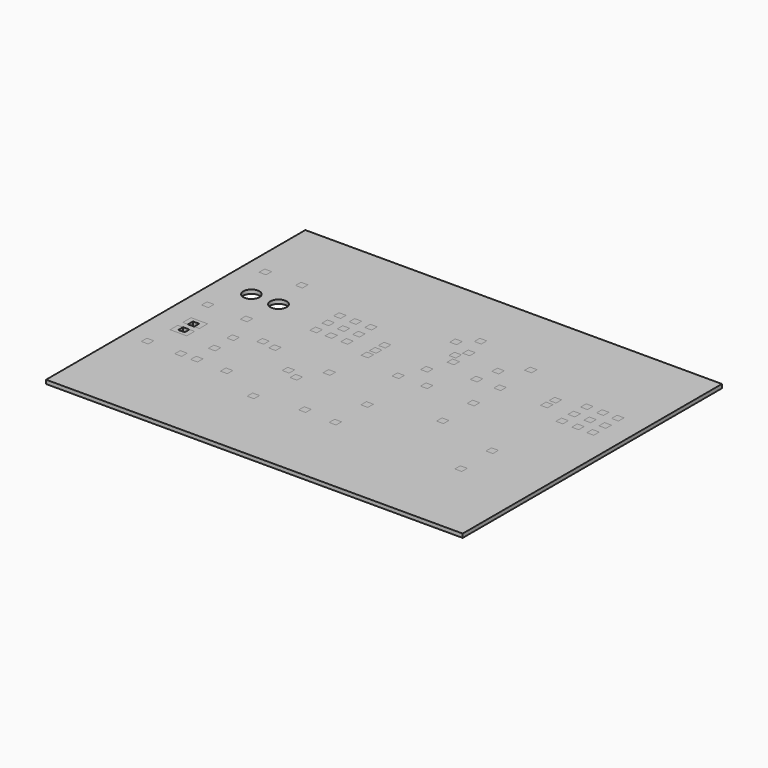
from build123d import *

# Parameters (mm, degrees)
F0_W     = 1.1424850672
F0_H     = 1.1424841359
F1_DEPTH = 0.635
F0_W_2   = 68.58
F0_H_2   = 53.34
F0_R     = 3.048384159
F0_R_2   = 3.0501055082
F0_R_3   = 1.3281430865
F0_R_4   = 1.3313448852
F0_R_5   = 3.0492368832
F0_R_6   = 3.0482052647
F0_R_7   = 1.7145
F0_R_8   = 1.7111635464
F0_W_3   = 1.153769858
F0_H_3   = 1.1635442312
F0_W_4   = 1.155131369
F0_H_4   = 1.153957394
F0_W_5   = 1.1552454147
F0_H_5   = 1.1508179416
F0_W_6   = 1.1546638189
F0_H_6   = 1.1431326677
F0_W_7   = 1.1488137162
F0_H_7   = 1.1468691339
F0_W_8   = 1.1546542028
F0_H_8   = 1.1406329979
F0_W_9   = 1.151802796
F0_W_10  = 1.1472644611
F0_W_11  = 1.1428695498
F0_H_9   = 1.1506540288
F0_W_12  = 1.1488784431
F0_H_10  = 1.1438889016
F0_W_13  = 1.1484295456
F0_H_11  = 1.1441645731
F0_W_14  = 1.1429608194
F0_W_15  = 1.1424560426
F0_W_16  = 1.1420074653
F0_W_17  = 1.1491597025
F0_H_12  = 1.137824129
F0_W_18  = 1.1540025799
F0_H_13  = 1.1319679727
F0_W_19  = 1.1389188795
F0_W_20  = 1.136336322
F0_W_21  = 1.1386022298
F0_W_22  = 1.1507336377
F0_H_14  = 1.130611967
F0_W_23  = 1.1359381753
F0_W_24  = 1.1475555285
F0_H_15  = 1.1319716979
F0_W_25  = 1.1313695787
F0_H_16  = 1.1465971877
F0_W_26  = 1.1428432426
F0_H_17  = 1.1348401715
F0_W_27  = 1.1360105316
F0_W_28  = 1.1460043816
F0_H_18  = 1.1303772737
F0_W_29  = 1.1320438562
F0_W_30  = 1.1440048321
F0_W_31  = 1.1433229413
F0_H_19  = 1.1308056821
F0_W_32  = 1.1429272918
F0_W_33  = 1.1369556515
F0_H_20  = 1.1324932386
F0_W_34  = 1.1285118523
F0_H_21  = 1.1317766343
F0_W_35  = 1.1280644313
F0_W_36  = 1.1258753965
F2_DEPTH = 0.635


with BuildPart() as f1:
    # F0 (on Top) → F1 (new body)
    with BuildSketch(Plane.XY):
        with Locations((-12.0947835967, -11.4464927465)):
            Rectangle(F0_W, F0_H)
    extrude(amount=F1_DEPTH)


with BuildPart() as f1b:
    # F0 (on Top) → F1, piece 2 (new body)
    with BuildSketch(Plane.XY):
        with Locations((3.6845223513, 8.9712943882)):
            Rectangle(F0_W, F0_H)
    extrude(amount=F1_DEPTH)


with BuildPart() as f1c:
    # F0 (on Top) → F1, piece 3 (new body)
    with BuildSketch(Plane.XY):
        with Locations((20.7899678499, 11.8188885972)):
            Rectangle(F0_W, F0_H)
    extrude(amount=F1_DEPTH)


with BuildPart() as f1d:
    # F0 (on Top) → F1, piece 4 (new body)
    with BuildSketch(Plane.XY):
        with Locations((-0.164329831, 8.9690964669)):
            Rectangle(F0_W, F0_H)
    extrude(amount=F1_DEPTH)


with BuildPart() as f1e:
    # F0 (on Top) → F1, piece 5 (new body)
    with BuildSketch(Plane.XY):
        with Locations((15.6995188445, 11.8208611384)):
            Rectangle(F0_W, F0_H)
    extrude(amount=F1_DEPTH)


with BuildPart() as f1f:
    # F0 (on Top) → F1, piece 6 (new body)
    with BuildSketch(Plane.XY):
        with Locations((-16.1074316129, -1.4182815794)):
            Rectangle(F0_W, F0_H)
    extrude(amount=F1_DEPTH)


with BuildPart() as f1g:
    # F0 (on Top) → F1, piece 7 (new body)
    with BuildSketch(Plane.XY):
        with Locations((0.5816233461, 12.4416407198)):
            Rectangle(F0_W, F0_H)
    extrude(amount=F1_DEPTH)


with BuildPart() as f1h:
    # F0 (on Top) → F1, piece 8 (new body)
    with BuildSketch(Plane.XY):
        with Locations((-40.0054538622, 15.3071652167)):
            Rectangle(F0_W, F0_H)
    extrude(amount=F1_DEPTH)


with BuildPart() as f1i:
    # F0 (on Top) → F1, piece 9 (new body)
    with BuildSketch(Plane.XY):
        with Locations((3.685904434, 15.3039516881)):
            Rectangle(F0_W, F0_H)
    extrude(amount=F1_DEPTH)


with BuildPart() as f1j:
    # F0 (on Top) → F1, piece 10 (new body)
    with BuildSketch(Plane.XY):
        with Locations((-6.7360280082, -5.3423130885)):
            Rectangle(F0_W, F0_H)
    extrude(amount=F1_DEPTH)


with BuildPart() as f1k:
    # F0 (on Top) → F1, piece 11 (new body)
    with BuildSketch(Plane.XY):
        with Locations((3.6789604928, -2.8074549045)):
            Rectangle(F0_W, F0_H)
    extrude(amount=F1_DEPTH)


with BuildPart() as f1l:
    # F0 (on Top) → F1, piece 12 (new body)
    with BuildSketch(Plane.XY):
        with Locations((-25.8802818134, -0.3875818802)):
            Rectangle(F0_W, F0_H)
    extrude(amount=F1_DEPTH)


with BuildPart() as f1m:
    # F0 (on Top) → F1, piece 13 (new body)
    with BuildSketch(Plane.XY):
        with Locations((-6.8688215688, 7.1150702424)):
            Rectangle(F0_W, F0_H)
    extrude(amount=F1_DEPTH)


with BuildPart() as f1n:
    # F0 (on Top) → F1, piece 14 (new body)
    with BuildSketch(Plane.XY):
        with Locations((13.8416448608, -5.3388397209)):
            Rectangle(F0_W, F0_H)
    extrude(amount=F1_DEPTH)


with BuildPart() as f1o:
    # F0 (on Top) → F1, piece 15 (new body)
    with BuildSketch(Plane.XY):
        with Locations((-31.8141551688, -1.5945939813)):
            Rectangle(F0_W, F0_H)
    extrude(amount=F1_DEPTH)


with BuildPart() as f1p:
    # F0 (on Top) → F1, piece 16 (new body)
    with BuildSketch(Plane.XY):
        with Locations((-31.8734729663, -5.3138262592)):
            Rectangle(F0_W, F0_H)
    extrude(amount=F1_DEPTH)


with BuildPart() as f1q:
    # F0 (on Top) → F1, piece 17 (new body)
    with BuildSketch(Plane.XY):
        with Locations((-15.2974575758, 8.9713996276)):
            Rectangle(F0_W, F0_H)
    extrude(amount=F1_DEPTH)


with BuildPart() as f1r:
    # F0 (on Top) → F1, piece 18 (new body)
    with BuildSketch(Plane.XY):
        with Locations((-26.6984822229, -9.2989178374)):
            Rectangle(F0_W, F0_H)
    extrude(amount=F1_DEPTH)


with BuildPart() as f1s:
    # F0 (on Top) → F1, piece 19 (new body)
    with BuildSketch(Plane.XY):
        with Locations((-19.6643201634, -12.6012633555)):
            Rectangle(F0_W, F0_H)
    extrude(amount=F1_DEPTH)


with BuildPart() as f1t:
    # F0 (on Top) → F1, piece 20 (new body)
    with BuildSketch(Plane.XY):
        with Locations((-20.6055892631, -4.2083924636)):
            Rectangle(F0_W, F0_H)
    extrude(amount=F1_DEPTH)


with BuildPart() as f1u:
    # F0 (on Top) → F1, piece 21 (new body)
    with BuildSketch(Plane.XY):
        with Locations((-6.3619138673, 17.5272338092)):
            Rectangle(F0_W, F0_H)
    extrude(amount=F1_DEPTH)


with BuildPart() as f1v:
    # F0 (on Top) → F1, piece 22 (new body)
    with BuildSketch(Plane.XY):
        with Locations((-34.0579906479, 15.3533625416)):
            Rectangle(F0_W, F0_H)
    extrude(amount=F1_DEPTH)


with BuildPart() as f1w:
    # F0 (on Top) → F1, piece 23 (new body)
    with BuildSketch(Plane.XY):
        with Locations((-24.938381277, 11.7857339792)):
            Rectangle(F0_W, F0_H)
    extrude(amount=F1_DEPTH)


with BuildPart() as f1x:
    # F0 (on Top) → F1, piece 24 (new body)
    with BuildSketch(Plane.XY):
        with Locations((18.3159410954, 11.819222942)):
            Rectangle(F0_W, F0_H)
    extrude(amount=F1_DEPTH)


with BuildPart() as f1y:
    # F0 (on Top) → F1, piece 25 (new body)
    with BuildSketch(Plane.XY):
        with Locations((-6.8619521335, -11.725505814)):
            Rectangle(F0_W, F0_H)
    extrude(amount=F1_DEPTH)


with BuildPart() as f1z:
    # F0 (on Top) → F1, piece 26 (new body)
    with BuildSketch(Plane.XY):
        with Locations((3.6787756253, 3.5106195137)):
            Rectangle(F0_W, F0_H)
    extrude(amount=F1_DEPTH)


with BuildPart() as f1ba:
    # F0 (on Top) → F1, piece 27 (new body)
    with BuildSketch(Plane.XY):
        with Locations((-40.0899508968, 3.5514084157)):
            Rectangle(F0_W, F0_H)
    extrude(amount=F1_DEPTH)


with BuildPart() as f1bb:
    # F0 (on Top) → F1, piece 28 (new body)
    with BuildSketch(Plane.XY):
        with Locations((-8.6239557713, 3.4016023856)):
            Rectangle(F0_W, F0_H)
    extrude(amount=F1_DEPTH)


with BuildPart() as f1bc:
    # F0 (on Top) → F1, piece 29 (new body)
    with BuildSketch(Plane.XY):
        with Locations((-28.176353313, 0.0254244078)):
            Rectangle(F0_W, F0_H)
    extrude(amount=F1_DEPTH)


with BuildPart() as f1bd:
    # F0 (on Top) → F1, piece 30 (new body)
    with BuildSketch(Plane.XY):
        with Locations((-4.0141595528, 3.5131284967)):
            Rectangle(F0_W, F0_H)
    extrude(amount=F1_DEPTH)


with BuildPart() as f1be:
    # F0 (on Top) → F1, piece 31 (new body)
    with BuildSketch(Plane.XY):
        with Locations((13.8409873471, -11.7373885587)):
            Rectangle(F0_W, F0_H)
    extrude(amount=F1_DEPTH)


with BuildPart() as f1bf:
    # F0 (on Top) → F1, piece 32 (new body)
    with BuildSketch(Plane.XY):
        with Locations((-39.801068604, -9.1939172707)):
            Rectangle(F0_W, F0_H)
    extrude(amount=F1_DEPTH)


with BuildPart() as f1bg:
    # F0 (on Top) → F1, piece 33 (new body)
    with BuildSketch(Plane.XY):
        with Locations((-34.2925013974, -9.2015261762)):
            Rectangle(F0_W, F0_H)
    extrude(amount=F1_DEPTH)


with BuildPart() as f1bh:
    # F0 (on Top) → F1, piece 34 (new body)
    with BuildSketch(Plane.XY):
        with Locations((15.7072041184, 9.2119891196)):
            Rectangle(F0_W, F0_H)
    extrude(amount=F1_DEPTH)


with BuildPart() as f1bi:
    # F0 (on Top) → F1, piece 35 (new body)
    with BuildSketch(Plane.XY):
        with Locations((-19.7311779484, 6.7653921433)):
            Rectangle(F0_W, F0_H)
    extrude(amount=F1_DEPTH)


with BuildPart() as f1bj:
    # F0 (on Top) → F1, piece 36 (new body)
    with BuildSketch(Plane.XY):
        with Locations((-19.7957484052, 11.7804431356)):
            Rectangle(F0_W, F0_H)
    extrude(amount=F1_DEPTH)


with BuildPart() as f1bk:
    # F0 (on Top) → F1, piece 37 (new body)
    with BuildSketch(Plane.XY):
        with Locations((-22.3168237135, 9.2533458956)):
            Rectangle(F0_W, F0_H)
    extrude(amount=F1_DEPTH)


with BuildPart() as f1bl:
    # F0 (on Top) → F1, piece 38 (new body)
    with BuildSketch(Plane.XY):
        with Locations((-24.8503545299, 9.2730033211)):
            Rectangle(F0_W, F0_H)
    extrude(amount=F1_DEPTH)


with BuildPart() as f1bm:
    # F0 (on Top) → F1, piece 39 (new body)
    with BuildSketch(Plane.XY):
        with Locations((-24.8198667541, 6.7671635188)):
            Rectangle(F0_W, F0_H)
    extrude(amount=F1_DEPTH)


with BuildPart() as f1bn:
    # F0 (on Top) → F1, piece 40 (new body)
    with BuildSketch(Plane.XY):
        with Locations((-18.5875222087, -5.1120142452)):
            Rectangle(F0_W, F0_H)
    extrude(amount=F1_DEPTH)


with BuildPart() as f1bo:
    # F0 (on Top) → F1, piece 41 (new body)
    with BuildSketch(Plane.XY):
        with Locations((-33.7255010381, 3.5727850627)):
            Rectangle(F0_W, F0_H)
    extrude(amount=F1_DEPTH)


with BuildPart() as f1bp:
    # F0 (on Top) → F1, piece 42 (new body)
    with BuildSketch(Plane.XY):
        with Locations((-15.322313644, 5.4454342462)):
            Rectangle(F0_W, F0_H)
    extrude(amount=F1_DEPTH)


with BuildPart() as f1bq:
    # F0 (on Top) → F1, piece 43 (new body)
    with BuildSketch(Plane.XY):
        with Locations((11.4010758698, 10.7105723582)):
            Rectangle(F0_W, F0_H)
    extrude(amount=F1_DEPTH)


with BuildPart() as f1br:
    # F0 (on Top) → F1, piece 44 (new body)
    with BuildSketch(Plane.XY):
        with Locations((-15.2958659455, 7.1160676889)):
            Rectangle(F0_W, F0_H)
    extrude(amount=F1_DEPTH)


with BuildPart() as f1bs:
    # F0 (on Top) → F1, piece 45 (new body)
    with BuildSketch(Plane.XY):
        with Locations((11.3666737452, 8.9731253684)):
            Rectangle(F0_W, F0_H)
    extrude(amount=F1_DEPTH)


with BuildPart() as f1bt:
    # F0 (on Top) → F1, piece 46 (new body)
    with BuildSketch(Plane.XY):
        Polygon((-39.5139195025, -3.3139334992), (-39.5139195025, -4.9108788371), (-36.773905158, -4.9108788371), (-36.773905158, -3.3052898943), (-37.6123338938, -3.3139334992), (-37.6123338938, -4.290657118), (-38.6668480933, -4.290657118), (-38.6668480933, -3.3139334992), align=None)
    extrude(amount=F1_DEPTH)


with BuildPart() as f1bu:
    # F0 (on Top) → F1, piece 47 (new body)
    with BuildSketch(Plane.XY):
        with Locations((-5.4936935194, 10.8320917934)):
            Rectangle(F0_W, F0_H)
    extrude(amount=F1_DEPTH)


with BuildPart() as f1bv:
    # F0 (on Top) → F1, piece 48 (new body)
    with BuildSketch(Plane.XY):
        with Locations((20.7871235907, 6.7406576127)):
            Rectangle(F0_W, F0_H)
    extrude(amount=F1_DEPTH)


with BuildPart() as f1bw:
    # F0 (on Top) → F1, piece 49 (new body)
    with BuildSketch(Plane.XY):
        with Locations((-5.4962350987, 14.0486843884)):
            Rectangle(F0_W, F0_H)
    extrude(amount=F1_DEPTH)


with BuildPart() as f1bx:
    # F0 (on Top) → F1, piece 50 (new body)
    with BuildSketch(Plane.XY):
        with Locations((20.8063982427, 9.2154741287)):
            Rectangle(F0_W, F0_H)
    extrude(amount=F1_DEPTH)


with BuildPart() as f1by:
    # F0 (on Top) → F1, piece 51 (new body)
    with BuildSketch(Plane.XY):
        with Locations((-8.7216766551, 15.4109913856)):
            Rectangle(F0_W, F0_H)
    extrude(amount=F1_DEPTH)


with BuildPart() as f1bz:
    # F0 (on Top) → F1, piece 52 (new body)
    with BuildSketch(Plane.XY):
        with Locations((-22.3517110571, 11.7601989768)):
            Rectangle(F0_W, F0_H)
    extrude(amount=F1_DEPTH)


with BuildPart() as f1ca:
    # F0 (on Top) → F1, piece 53 (new body)
    with BuildSketch(Plane.XY):
        with Locations((-19.7961712256, 9.2837219127)):
            Rectangle(F0_W, F0_H)
    extrude(amount=F1_DEPTH)


with BuildPart() as f1cb:
    # F0 (on Top) → F1, piece 54 (new body)
    with BuildSketch(Plane.XY):
        Polygon((-39.5139195025, -2.2943243384), (-38.6668480933, -2.2943243384), (-38.6668480933, -1.2747744331), (-37.6486629248, -1.2747744331), (-37.6486629248, -2.2943243384), (-36.773905158, -2.2943243384), (-36.7913041149, -0.6066273947), (-39.5139195025, -0.6057914149), align=None)
    extrude(amount=F1_DEPTH)


with BuildPart() as f1cc:
    # F0 (on Top) → F1, piece 55 (new body)
    with BuildSketch(Plane.XY):
        with Locations((15.7012771815, 6.7385076545)):
            Rectangle(F0_W, F0_H)
    extrude(amount=F1_DEPTH)


with BuildPart() as f1cd:
    # F0 (on Top) → F1, piece 56 (new body)
    with BuildSketch(Plane.XY):
        with Locations((18.3060877025, 6.7323441617)):
            Rectangle(F0_W, F0_H)
    extrude(amount=F1_DEPTH)


with BuildPart() as f1ce:
    # F0 (on Top) → F1, piece 57 (new body)
    with BuildSketch(Plane.XY):
        with Locations((-31.7225800827, -9.1567658819)):
            Rectangle(F0_W, F0_H)
    extrude(amount=F1_DEPTH)


with BuildPart() as f1cf:
    # F0 (on Top) → F1, piece 58 (new body)
    with BuildSketch(Plane.XY):
        with Locations((-6.4819236286, 12.454636395)):
            Rectangle(F0_W, F0_H)
    extrude(amount=F1_DEPTH)


with BuildPart() as f1cg:
    # F0 (on Top) → F1, piece 59 (new body)
    with BuildSketch(Plane.XY):
        with Locations((18.3121804148, 9.2146545649)):
            Rectangle(F0_W, F0_H)
    extrude(amount=F1_DEPTH)


with BuildPart() as f1ch:
    # F0 (on Top) → F1, piece 60 (new body)
    with BuildSketch(Plane.XY):
        with Locations((-22.3320061341, 6.7562921904)):
            Rectangle(F0_W, F0_H)
    extrude(amount=F1_DEPTH)


with BuildPart() as f2:
    # F0 (on Top) → F2 (new body)
    with BuildSketch(Plane.XY):
        with Locations((-8.991334568, 0.9459536523)):
            Rectangle(F0_W_2, F0_H_2)
        with Locations((-37.3371429741, -19.6391604841)):
            Circle(F0_R, mode=Mode.SUBTRACT)
        Polygon((-30.1888173614, -18.804986281), (-30.1888173614, -19.9685305122), (-30.1888173614, -20.455986281), (-31.9547951221, -20.455986281), (-31.9547951221, -18.296986281), (-30.1888173614, -18.296986281), align=None, mode=Mode.SUBTRACT)
        Polygon((-27.5922247513, -18.8097796996), (-27.5922247513, -19.9637370935), (-27.5922247513, -20.4711891711), (-29.2492904357, -20.4760215176), (-29.2492904357, -18.2974952756), (-27.5922247513, -18.2930082083), align=None, mode=Mode.SUBTRACT)
        Polygon((-24.9189991386, -18.8213555555), (-24.9189991386, -19.9521612376), (-24.9189991386, -20.4676426947), (-26.5608560294, -20.4676426947), (-26.5608560294, -18.3181222528), (-24.9189991386, -18.3181222528), align=None, mode=Mode.SUBTRACT)
        Polygon((-22.3033304134, -18.8208700794), (-22.3033304134, -19.9526467137), (-22.3033304134, -20.4683449119), (-23.9567533135, -20.4683449119), (-23.9567533135, -18.31719609), (-22.3033304134, -18.31719609), align=None, mode=Mode.SUBTRACT)
        Polygon((-19.6912095502, -18.8208700794), (-19.6912095502, -19.9526467137), (-19.6912095502, -20.4606467137), (-21.3540494442, -20.4606467137), (-21.3540494442, -18.31719609), (-19.6912095502, -18.31719609), align=None, mode=Mode.SUBTRACT)
        Polygon((-17.1390278894, -18.8208700794), (-17.1390278894, -19.9526467137), (-17.1390278894, -20.4606467137), (-18.7990702689, -20.4606467137), (-18.7990702689, -18.2970241854), (-17.1390278894, -18.2970241854), align=None, mode=Mode.SUBTRACT)
        Polygon((-14.6851278841, -18.8151920627), (-14.6851278841, -19.9583247304), (-14.6851278841, -20.4663247304), (-16.330871731, -20.4663247304), (-16.330871731, -18.2974551307), (-14.6851278841, -18.2974551307), align=None, mode=Mode.SUBTRACT)
        Polygon((-12.2605673969, -18.8151920627), (-12.2605673969, -19.9583247304), (-12.2605673969, -20.467042923), (-13.9143876731, -20.467042923), (-13.9143876731, -18.3135922998), (-12.2605673969, -18.3135922998), align=None, mode=Mode.SUBTRACT)
        Polygon((-9.7358254716, -18.8207744102), (-9.7358254716, -19.9527423829), (-9.7358254716, -20.4607423829), (-11.3855423406, -20.4607423829), (-11.3855423406, -18.2998486297), (-9.7358254716, -18.2998486297), align=None, mode=Mode.SUBTRACT)
        with Locations((-19.6643201634, -12.6012633555)):
            Rectangle(F0_W, F0_H, mode=Mode.SUBTRACT)
        with Locations((-39.801068604, -9.1939172707)):
            Rectangle(F0_W, F0_H, mode=Mode.SUBTRACT)
        with Locations((-34.2925013974, -9.2015261762)):
            Rectangle(F0_W, F0_H, mode=Mode.SUBTRACT)
        with Locations((-31.7225800827, -9.1567658819)):
            Rectangle(F0_W, F0_H, mode=Mode.SUBTRACT)
        with Locations((-26.6984822229, -9.2989178374)):
            Rectangle(F0_W, F0_H, mode=Mode.SUBTRACT)
        Polygon((-36.773905158, -4.9108788371), (-39.5139195025, -4.9108788371), (-39.5139195025, -3.3139334992), (-38.6668480933, -3.3139334992), (-37.6123338938, -3.3139334992), (-36.773905158, -3.3052898943), align=None, mode=Mode.SUBTRACT)
        Polygon((-37.6486629248, -2.2943243384), (-38.6668480933, -2.2943243384), (-39.5139195025, -2.2943243384), (-39.5139195025, -0.6057914149), (-36.7913041149, -0.6066273947), (-36.773905158, -2.2943243384), align=None, mode=Mode.SUBTRACT)
        with Locations((-31.8734729663, -5.3138262592)):
            Rectangle(F0_W, F0_H, mode=Mode.SUBTRACT)
        with Locations((-31.8141551688, -1.5945939813)):
            Rectangle(F0_W, F0_H, mode=Mode.SUBTRACT)
        with Locations((-28.176353313, 0.0254244078)):
            Rectangle(F0_W, F0_H, mode=Mode.SUBTRACT)
        with Locations((-12.0947835967, -11.4464927465)):
            Rectangle(F0_W, F0_H, mode=Mode.SUBTRACT)
        with Locations((-20.6055892631, -4.2083924636)):
            Rectangle(F0_W, F0_H, mode=Mode.SUBTRACT)
        with Locations((-18.5875222087, -5.1120142452)):
            Rectangle(F0_W, F0_H, mode=Mode.SUBTRACT)
        with Locations((-25.8802818134, -0.3875818802)):
            Rectangle(F0_W, F0_H, mode=Mode.SUBTRACT)
        with Locations((-16.1074316129, -1.4182815794)):
            Rectangle(F0_W, F0_H, mode=Mode.SUBTRACT)
        Polygon((-7.1898526512, -18.8133238296), (-7.1898526512, -19.9601929635), (-7.1898526512, -20.4626098275), (-8.8425390422, -20.4626098275), (-8.8425390422, -18.3073207736), (-7.1898526512, -18.3073207736), align=None, mode=Mode.SUBTRACT)
        Polygon((-4.6788943, -18.8133238296), (-4.6788943, -19.9601929635), (-4.6788943, -20.4638820142), (-6.3246097416, -20.4638820142), (-6.3246097416, -18.3073207736), (-4.6788943, -18.3073207736), align=None, mode=Mode.SUBTRACT)
        Polygon((-2.140162047, -18.8133238296), (-2.140162047, -19.9601929635), (-2.1395205986, -20.4452760518), (-3.7758991983, -20.4452760518), (-3.7980461493, -18.2970241854), (-2.140162047, -18.2970241854), align=None, mode=Mode.SUBTRACT)
        Polygon((0.3833324881, -18.8133238296), (0.3833324881, -19.9601929635), (0.3833324881, -20.4565040767), (-1.2618558249, -20.4565040767), (-1.2618558249, -18.29967089), (0.3833324881, -18.29967089), align=None, mode=Mode.SUBTRACT)
        Polygon((2.9144186992, -18.8133238296), (2.9144186992, -19.9601929635), (2.9144186992, -20.4766131938), (1.2687623966, -20.4766131938), (1.2687623966, -18.3138214052), (2.9144186992, -18.3138214052), align=None, mode=Mode.SUBTRACT)
        Polygon((8.824842982, -18.8133238296), (8.824842982, -19.9601929635), (8.824842982, -20.4583760351), (7.1715866216, -20.4583760351), (7.1715866216, -18.3013118804), (8.824842982, -18.3013118804), align=None, mode=Mode.SUBTRACT)
        Polygon((11.3534778357, -18.8133238296), (11.3534778357, -19.9601929635), (11.3534778357, -20.4583760351), (9.7078224644, -20.4583760351), (9.7078224644, -18.3013118804), (11.3534778357, -18.3013118804), align=None, mode=Mode.SUBTRACT)
        Polygon((13.9026697725, -18.8178463321), (13.9026697725, -19.9556704611), (13.9026697725, -20.4598754644), (12.2532956302, -20.4598754644), (12.2532956302, -18.3129943907), (13.9026697725, -18.3129943907), align=None, mode=Mode.SUBTRACT)
        with Locations((19.2500967532, -19.6391604841)):
            Circle(F0_R_2, mode=Mode.SUBTRACT)
        with Locations((-6.8619521335, -11.725505814)):
            Rectangle(F0_W, F0_H, mode=Mode.SUBTRACT)
        with Locations((-6.7360280082, -5.3423130885)):
            Rectangle(F0_W, F0_H, mode=Mode.SUBTRACT)
        with Locations((3.6789604928, -2.8074549045)):
            Rectangle(F0_W, F0_H, mode=Mode.SUBTRACT)
        with Locations((13.8409873471, -11.7373885587)):
            Rectangle(F0_W, F0_H, mode=Mode.SUBTRACT)
        with Locations((13.8416448608, -5.3388397209)):
            Rectangle(F0_W, F0_H, mode=Mode.SUBTRACT)
        with Locations((-40.0899508968, 3.5514084157)):
            Rectangle(F0_W, F0_H, mode=Mode.SUBTRACT)
        with Locations((-33.7255010381, 3.5727850627)):
            Rectangle(F0_W, F0_H, mode=Mode.SUBTRACT)
        with Locations((-37.5306159258, 9.3350680545)):
            Circle(F0_R_3, mode=Mode.SUBTRACT)
        with Locations((-33.069267869, 9.3350680545)):
            Circle(F0_R_4, mode=Mode.SUBTRACT)
        with Locations((-24.8198667541, 6.7671635188)):
            Rectangle(F0_W, F0_H, mode=Mode.SUBTRACT)
        with Locations((-22.3320061341, 6.7562921904)):
            Rectangle(F0_W, F0_H, mode=Mode.SUBTRACT)
        with Locations((-19.7311779484, 6.7653921433)):
            Rectangle(F0_W, F0_H, mode=Mode.SUBTRACT)
        with Locations((-15.322313644, 5.4454342462)):
            Rectangle(F0_W, F0_H, mode=Mode.SUBTRACT)
        with Locations((-15.2958659455, 7.1160676889)):
            Rectangle(F0_W, F0_H, mode=Mode.SUBTRACT)
        with Locations((-24.8503545299, 9.2730033211)):
            Rectangle(F0_W, F0_H, mode=Mode.SUBTRACT)
        with Locations((-22.3168237135, 9.2533458956)):
            Rectangle(F0_W, F0_H, mode=Mode.SUBTRACT)
        with Locations((-19.7961712256, 9.2837219127)):
            Rectangle(F0_W, F0_H, mode=Mode.SUBTRACT)
        with Locations((-24.938381277, 11.7857339792)):
            Rectangle(F0_W, F0_H, mode=Mode.SUBTRACT)
        with Locations((-22.3517110571, 11.7601989768)):
            Rectangle(F0_W, F0_H, mode=Mode.SUBTRACT)
        with Locations((-19.7957484052, 11.7804431356)):
            Rectangle(F0_W, F0_H, mode=Mode.SUBTRACT)
        with Locations((-15.2974575758, 8.9713996276)):
            Rectangle(F0_W, F0_H, mode=Mode.SUBTRACT)
        with Locations((-40.0054538622, 15.3071652167)):
            Rectangle(F0_W, F0_H, mode=Mode.SUBTRACT)
        with Locations((-34.0579906479, 15.3533625416)):
            Rectangle(F0_W, F0_H, mode=Mode.SUBTRACT)
        with Locations((-37.3371429741, 21.7273831367)):
            Circle(F0_R_5, mode=Mode.SUBTRACT)
        Polygon((-30.1942806691, 21.643069904), (-30.1942806691, 20.5082297325), (-30.1942806691, 19.9864897877), (-31.8488068879, 19.9864897877), (-31.8488068879, 22.1508741379), (-30.1942806691, 22.1508741379), align=None, mode=Mode.SUBTRACT)
        Polygon((-27.6018213481, 21.6477321048), (-27.6018213481, 20.5035675317), (-27.6018213481, 19.9915003031), (-29.2535498738, 19.9915003031), (-29.2535498738, 22.1508741379), (-27.6018213481, 22.1508741379), align=None, mode=Mode.SUBTRACT)
        Polygon((-24.9164458364, 21.6477321048), (-24.9164458364, 20.5035675317), (-24.9164458364, 19.9844352901), (-26.5725683421, 19.9844352901), (-26.5725683421, 22.1472270787), (-24.9164458364, 22.1472270787), align=None, mode=Mode.SUBTRACT)
        Polygon((-22.2897399217, 21.651058789), (-22.2897399217, 20.5002408475), (-22.2897399217, 19.9816729873), (-23.9346586168, 19.9816729873), (-23.9346586168, 22.1498124301), (-22.2897399217, 22.1498124301), align=None, mode=Mode.SUBTRACT)
        Polygon((-19.6861419827, 21.6459663172), (-19.6861419827, 20.5053333193), (-19.6861419827, 19.9887584895), (-21.3343109936, 19.9887584895), (-21.3343109936, 22.142726928), (-19.6861419827, 22.142726928), align=None, mode=Mode.SUBTRACT)
        Polygon((-17.1259567142, 21.6459663172), (-17.1259567142, 20.5053333193), (-17.1259567142, 19.984724), (-18.7645871192, 19.984724), (-18.7645871192, 22.1502128989), (-17.1259567142, 22.1502128989), align=None, mode=Mode.SUBTRACT)
        Polygon((-14.6910250187, 21.6509768327), (-14.6910250187, 20.5003228039), (-14.6910250187, 20.0184267014), (-16.3294617087, 20.0184267014), (-16.3294617087, 22.1670642495), (-14.6910250187, 22.1670642495), align=None, mode=Mode.SUBTRACT)
        Polygon((-12.261101976, 21.6409558017), (-12.261101976, 20.5103438348), (-12.261101976, 20.0015753508), (-13.9027647674, 20.0015753508), (-13.9027647674, 22.1417862922), (-12.261101976, 22.1417862922), align=None, mode=Mode.SUBTRACT)
        Polygon((-9.7443489358, 21.6418964375), (-9.7443489358, 20.509403199), (-9.7443489358, 20.0015753508), (-11.3918073475, 20.0015753508), (-11.3918073475, 22.1586395055), (-9.7443489358, 22.1586395055), align=None, mode=Mode.SUBTRACT)
        with Locations((-8.6239557713, 3.4016023856)):
            Rectangle(F0_W, F0_H, mode=Mode.SUBTRACT)
        with Locations((-4.0141595528, 3.5131284967)):
            Rectangle(F0_W, F0_H, mode=Mode.SUBTRACT)
        with Locations((-6.8688215688, 7.1150702424)):
            Rectangle(F0_W, F0_H, mode=Mode.SUBTRACT)
        with Locations((3.6787756253, 3.5106195137)):
            Rectangle(F0_W, F0_H, mode=Mode.SUBTRACT)
        with Locations((-5.4936935194, 10.8320917934)):
            Rectangle(F0_W, F0_H, mode=Mode.SUBTRACT)
        with Locations((-6.4819236286, 12.454636395)):
            Rectangle(F0_W, F0_H, mode=Mode.SUBTRACT)
        with Locations((-5.4962350987, 14.0486843884)):
            Rectangle(F0_W, F0_H, mode=Mode.SUBTRACT)
        with Locations((-0.164329831, 8.9690964669)):
            Rectangle(F0_W, F0_H, mode=Mode.SUBTRACT)
        with Locations((3.6845223513, 8.9712943882)):
            Rectangle(F0_W, F0_H, mode=Mode.SUBTRACT)
        with Locations((0.5816233461, 12.4416407198)):
            Rectangle(F0_W, F0_H, mode=Mode.SUBTRACT)
        with Locations((15.7012771815, 6.7385076545)):
            Rectangle(F0_W, F0_H, mode=Mode.SUBTRACT)
        with Locations((18.3060877025, 6.7323441617)):
            Rectangle(F0_W, F0_H, mode=Mode.SUBTRACT)
        with Locations((20.7871235907, 6.7406576127)):
            Rectangle(F0_W, F0_H, mode=Mode.SUBTRACT)
        with Locations((11.3666737452, 8.9731253684)):
            Rectangle(F0_W, F0_H, mode=Mode.SUBTRACT)
        with Locations((11.4010758698, 10.7105723582)):
            Rectangle(F0_W, F0_H, mode=Mode.SUBTRACT)
        with Locations((15.7072041184, 9.2119891196)):
            Rectangle(F0_W, F0_H, mode=Mode.SUBTRACT)
        with Locations((15.6995188445, 11.8208611384)):
            Rectangle(F0_W, F0_H, mode=Mode.SUBTRACT)
        with Locations((18.3121804148, 9.2146545649)):
            Rectangle(F0_W, F0_H, mode=Mode.SUBTRACT)
        with Locations((20.8063982427, 9.2154741287)):
            Rectangle(F0_W, F0_H, mode=Mode.SUBTRACT)
        with Locations((18.3159410954, 11.819222942)):
            Rectangle(F0_W, F0_H, mode=Mode.SUBTRACT)
        with Locations((20.7899678499, 11.8188885972)):
            Rectangle(F0_W, F0_H, mode=Mode.SUBTRACT)
        with Locations((-8.7216766551, 15.4109913856)):
            Rectangle(F0_W, F0_H, mode=Mode.SUBTRACT)
        with Locations((-6.3619138673, 17.5272338092)):
            Rectangle(F0_W, F0_H, mode=Mode.SUBTRACT)
        with Locations((3.685904434, 15.3039516881)):
            Rectangle(F0_W, F0_H, mode=Mode.SUBTRACT)
        Polygon((-7.1941837668, 21.6475942691), (-7.1941837668, 20.5037053674), (-7.1941837668, 19.9968088418), (-8.841438219, 19.9968088418), (-8.841438219, 22.1586395055), (-7.1941837668, 22.1586395055), align=None, mode=Mode.SUBTRACT)
        Polygon((-4.6841003932, 21.6475942691), (-4.6841003932, 20.5037053674), (-4.6841003932, 19.9968088418), (-6.336257793, 19.9968088418), (-6.336257793, 22.1586395055), (-4.6841003932, 22.1586395055), align=None, mode=Mode.SUBTRACT)
        Polygon((-2.1401296835, 21.6475942691), (-2.1401296835, 20.5037053674), (-2.1401296835, 19.9968088418), (-3.7915962748, 19.9968088418), (-3.7915962748, 22.1586395055), (-2.1401296835, 22.1586395055), align=None, mode=Mode.SUBTRACT)
        Polygon((0.3861065197, 21.6416356672), (0.3861065197, 20.5096639693), (0.3861065197, 19.9968088418), (-1.2597427703, 19.9968088418), (-1.2597427703, 22.1586395055), (0.3861065197, 22.1586395055), align=None, mode=Mode.SUBTRACT)
        Polygon((2.9182529543, 21.6408384551), (2.9182529543, 20.5104611814), (2.9182529543, 19.9968088418), (1.2653720332, 19.9968088418), (1.2653720332, 22.1586395055), (2.9182529543, 22.1586395055), align=None, mode=Mode.SUBTRACT)
        Polygon((8.8248262182, 21.6408384551), (8.8248262182, 20.5104611814), (8.8248262182, 19.9968088418), (7.1673267521, 19.9968088418), (7.1673267521, 22.1586395055), (8.8248262182, 22.1586395055), align=None, mode=Mode.SUBTRACT)
        Polygon((11.3570205867, 21.6408384551), (11.3570205867, 20.5104611814), (11.3570205867, 19.9968088418), (9.7124828026, 19.9968088418), (9.7124828026, 22.1586395055), (11.3570205867, 22.1586395055), align=None, mode=Mode.SUBTRACT)
        Polygon((13.8937747106, 21.6489484121), (13.8937747106, 20.5023512244), (13.8937747106, 19.979454577), (12.2463433072, 19.979454577), (12.2463433072, 22.1488494426), (13.8937747106, 22.1488494426), align=None, mode=Mode.SUBTRACT)
        with Locations((19.2500967532, 21.7273831367)):
            Circle(F0_R_6, mode=Mode.SUBTRACT)
        with Locations((19.2500967532, -19.6391604841)):
            Circle(F0_R_2)
        with Locations((19.2500967532, -19.6391604841)):
            Circle(F0_R_7, mode=Mode.SUBTRACT)
        with Locations((-37.3371429741, 21.7273831367)):
            Circle(F0_R_5)
        with Locations((-37.3371429741, 21.7273831367)):
            Circle(F0_R_7, mode=Mode.SUBTRACT)
        with Locations((-37.3371429741, -19.6391604841)):
            Circle(F0_R)
        with Locations((-37.3371429741, -19.6391604841)):
            Circle(F0_R_7, mode=Mode.SUBTRACT)
        with Locations((19.2500967532, 21.7273831367)):
            Circle(F0_R_6)
        with Locations((19.2500967532, 21.7273831367)):
            Circle(F0_R_8, mode=Mode.SUBTRACT)
        with Locations((-37.3371429741, 21.7273831367)):
            Circle(F0_R_7)
        with Locations((19.2500967532, -19.6391604841)):
            Circle(F0_R_7)
        with Locations((-37.3371429741, -19.6391604841)):
            Circle(F0_R_7)
        with Locations((19.2500967532, 21.7273831367)):
            Circle(F0_R_8)
        Polygon((-30.1888173614, -20.455986281), (-30.1888173614, -19.9685305122), (-31.3425872194, -19.9685305122), (-31.3425872194, -18.804986281), (-30.1888173614, -18.804986281), (-30.1888173614, -18.296986281), (-31.9547951221, -18.296986281), (-31.9547951221, -20.455986281), align=None)
        Polygon((-17.1390278894, -20.4606467137), (-17.1390278894, -19.9526467137), (-18.2675397417, -19.9526467137), (-18.2675397417, -18.8208700794), (-17.1390278894, -18.8208700794), (-17.1390278894, -18.2970241854), (-18.7990702689, -18.2970241854), (-18.7990702689, -20.4606467137), align=None)
        Polygon((8.8248262182, 19.9968088418), (8.8248262182, 20.5104611814), (7.6818989264, 20.5104611814), (7.6818989264, 21.6408384551), (8.8248262182, 21.6408384551), (8.8248262182, 22.1586395055), (7.1673267521, 22.1586395055), (7.1673267521, 19.9968088418), align=None)
        Polygon((-19.6912095502, -20.4606467137), (-19.6912095502, -19.9526467137), (-20.8170849467, -19.9526467137), (-20.8170849467, -18.8208700794), (-19.6912095502, -18.8208700794), (-19.6912095502, -18.31719609), (-21.3540494442, -18.31719609), (-21.3540494442, -20.4606467137), align=None)
        Polygon((-30.1942806691, 19.9864897877), (-30.1942806691, 20.5082297325), (-31.3371239117, 20.5082297325), (-31.3371239117, 21.643069904), (-30.1942806691, 21.643069904), (-30.1942806691, 22.1508741379), (-31.8488068879, 22.1508741379), (-31.8488068879, 19.9864897877), align=None)
        Polygon((2.9182529543, 19.9968088418), (2.9182529543, 20.5104611814), (1.7742481222, 20.5104611814), (1.7742481222, 21.6408384551), (2.9182529543, 21.6408384551), (2.9182529543, 22.1586395055), (1.2653720332, 22.1586395055), (1.2653720332, 19.9968088418), align=None)
        Polygon((-22.3033304134, -20.4683449119), (-22.3033304134, -19.9526467137), (-23.4313948447, -19.9526467137), (-23.4313948447, -18.8208700794), (-22.3033304134, -18.8208700794), (-22.3033304134, -18.31719609), (-23.9567533135, -18.31719609), (-23.9567533135, -20.4683449119), align=None)
        Polygon((-4.6841003932, 19.9968088418), (-4.6841003932, 20.5037053674), (-5.8161442494, 20.5037053674), (-5.8161442494, 21.6475942691), (-4.6841003932, 21.6475942691), (-4.6841003932, 22.1586395055), (-6.336257793, 22.1586395055), (-6.336257793, 19.9968088418), align=None)
        Polygon((13.8937747106, 19.979454577), (13.8937747106, 20.5023512244), (12.7624051319, 20.5023512244), (12.7624051319, 21.6489484121), (13.8937747106, 21.6489484121), (13.8937747106, 22.1488494426), (12.2463433072, 22.1488494426), (12.2463433072, 19.979454577), align=None)
        Polygon((-27.5922247513, -20.4711891711), (-27.5922247513, -19.9637370935), (-28.7473561202, -19.9637370935), (-28.7473561202, -18.8097796996), (-27.5922247513, -18.8097796996), (-27.5922247513, -18.2930082083), (-29.2492904357, -18.2974952756), (-29.2492904357, -20.4760215176), align=None)
        Polygon((-24.9164458364, 19.9844352901), (-24.9164458364, 20.5035675317), (-26.064875382, 20.5035675317), (-26.064875382, 21.6477321048), (-24.9164458364, 21.6477321048), (-24.9164458364, 22.1472270787), (-26.5725683421, 22.1472270787), (-26.5725683421, 19.9844352901), align=None)
        Polygon((-27.6018213481, 19.9915003031), (-27.6018213481, 20.5035675317), (-28.7377595234, 20.5035675317), (-28.7377595234, 21.6477321048), (-27.6018213481, 21.6477321048), (-27.6018213481, 22.1508741379), (-29.2535498738, 22.1508741379), (-29.2535498738, 19.9915003031), align=None)
        Polygon((-9.7443489358, 20.0015753508), (-9.7443489358, 20.509403199), (-10.8813045873, 20.509403199), (-10.8813045873, 21.6418964375), (-9.7443489358, 21.6418964375), (-9.7443489358, 22.1586395055), (-11.3918073475, 22.1586395055), (-11.3918073475, 20.0015753508), align=None)
        Polygon((11.3570205867, 19.9968088418), (11.3570205867, 20.5104611814), (10.2110162051, 20.5104611814), (10.2110162051, 21.6408384551), (11.3570205867, 21.6408384551), (11.3570205867, 22.1586395055), (9.7124828026, 22.1586395055), (9.7124828026, 19.9968088418), align=None)
        Polygon((0.3861065197, 19.9968088418), (0.3861065197, 20.5096639693), (-0.7614490087, 20.5096639693), (-0.7614490087, 21.6416356672), (0.3861065197, 21.6416356672), (0.3861065197, 22.1586395055), (-1.2597427703, 22.1586395055), (-1.2597427703, 19.9968088418), align=None)
        Polygon((-7.1941837668, 19.9968088418), (-7.1941837668, 20.5037053674), (-8.3327859966, 20.5037053674), (-8.3327859966, 21.6475942691), (-7.1941837668, 21.6475942691), (-7.1941837668, 22.1586395055), (-8.841438219, 22.1586395055), (-8.841438219, 19.9968088418), align=None)
        Polygon((-9.7358254716, -20.4607423829), (-9.7358254716, -19.9527423829), (-10.8898280515, -19.9527423829), (-10.8898280515, -18.8207744102), (-9.7358254716, -18.8207744102), (-9.7358254716, -18.2998486297), (-11.3855423406, -18.2998486297), (-11.3855423406, -20.4607423829), align=None)
        Polygon((-2.1401296835, 19.9968088418), (-2.1401296835, 20.5037053674), (-3.2890081266, 20.5037053674), (-3.2890081266, 21.6475942691), (-2.1401296835, 21.6475942691), (-2.1401296835, 22.1586395055), (-3.7915962748, 22.1586395055), (-3.7915962748, 19.9968088418), align=None)
        Polygon((2.9144186992, -20.4766131938), (2.9144186992, -19.9601929635), (1.7780823772, -19.9601929635), (1.7780823772, -18.8133238296), (2.9144186992, -18.8133238296), (2.9144186992, -18.3138214052), (1.2687623966, -18.3138214052), (1.2687623966, -20.4766131938), align=None)
        Polygon((8.824842982, -20.4583760351), (8.824842982, -19.9601929635), (7.6818821625, -19.9601929635), (7.6818821625, -18.8133238296), (8.824842982, -18.8133238296), (8.824842982, -18.3013118804), (7.1715866216, -18.3013118804), (7.1715866216, -20.4583760351), align=None)
        Polygon((-19.6861419827, 19.9887584895), (-19.6861419827, 20.5053333193), (-20.8221525142, 20.5053333193), (-20.8221525142, 21.6459663172), (-19.6861419827, 21.6459663172), (-19.6861419827, 22.142726928), (-21.3343109936, 22.142726928), (-21.3343109936, 19.9887584895), align=None)
        Polygon((-14.6851278841, -20.4663247304), (-14.6851278841, -19.9583247304), (-15.8397917031, -19.9583247304), (-15.8397917031, -18.8151920627), (-14.6851278841, -18.8151920627), (-14.6851278841, -18.2974551307), (-16.330871731, -18.2974551307), (-16.330871731, -20.4663247304), align=None)
        Polygon((-7.1898526512, -20.4626098275), (-7.1898526512, -19.9601929635), (-8.3371171123, -19.9601929635), (-8.3371171123, -18.8133238296), (-7.1898526512, -18.8133238296), (-7.1898526512, -18.3073207736), (-8.8425390422, -18.3073207736), (-8.8425390422, -20.4626098275), align=None)
        Polygon((-12.2605673969, -20.467042923), (-12.2605673969, -19.9583247304), (-13.4123701928, -19.9583247304), (-13.4123701928, -18.8151920627), (-12.2605673969, -18.8151920627), (-12.2605673969, -18.3135922998), (-13.9143876731, -18.3135922998), (-13.9143876731, -20.467042923), align=None)
        Polygon((11.3534778357, -20.4583760351), (11.3534778357, -19.9601929635), (10.2145589562, -19.9601929635), (10.2145589562, -18.8133238296), (11.3534778357, -18.8133238296), (11.3534778357, -18.3013118804), (9.7078224644, -18.3013118804), (9.7078224644, -20.4583760351), align=None)
        Polygon((-4.6788943, -20.4638820142), (-4.6788943, -19.9601929635), (-5.8213503426, -19.9601929635), (-5.8213503426, -18.8133238296), (-4.6788943, -18.8133238296), (-4.6788943, -18.3073207736), (-6.3246097416, -18.3073207736), (-6.3246097416, -20.4638820142), align=None)
        Polygon((0.3833324881, -20.4565040767), (0.3833324881, -19.9601929635), (-0.7586749771, -19.9601929635), (-0.7586749771, -18.8133238296), (0.3833324881, -18.8133238296), (0.3833324881, -18.29967089), (-1.2618558249, -18.29967089), (-1.2618558249, -20.4565040767), align=None)
        Polygon((-22.2897399217, 19.9816729873), (-22.2897399217, 20.5002408475), (-23.4449853363, 20.5002408475), (-23.4449853363, 21.651058789), (-22.2897399217, 21.651058789), (-22.2897399217, 22.1498124301), (-23.9346586168, 22.1498124301), (-23.9346586168, 19.9816729873), align=None)
        Polygon((-24.9189991386, -20.4676426947), (-24.9189991386, -19.9521612376), (-26.0623220799, -19.9521612376), (-26.0623220799, -18.8213555555), (-24.9189991386, -18.8213555555), (-24.9189991386, -18.3181222528), (-26.5608560294, -18.3181222528), (-26.5608560294, -20.4676426947), align=None)
        Polygon((13.9026697725, -20.4598754644), (13.9026697725, -19.9556704611), (12.75351007, -19.9556704611), (12.75351007, -18.8178463321), (13.9026697725, -18.8178463321), (13.9026697725, -18.3129943907), (12.2532956302, -18.3129943907), (12.2532956302, -20.4598754644), align=None)
        Polygon((-17.1259567142, 19.984724), (-17.1259567142, 20.5053333193), (-18.2806109169, 20.5053333193), (-18.2806109169, 21.6459663172), (-17.1259567142, 21.6459663172), (-17.1259567142, 22.1502128989), (-18.7645871192, 22.1502128989), (-18.7645871192, 19.984724), align=None)
        Polygon((-2.1395205986, -20.4452760518), (-2.140162047, -19.9601929635), (-3.2889757632, -19.9601929635), (-3.2889757632, -18.8133238296), (-2.140162047, -18.8133238296), (-2.140162047, -18.2970241854), (-3.7980461493, -18.2970241854), (-3.7758991983, -20.4452760518), align=None)
        Polygon((-12.261101976, 20.0015753508), (-12.261101976, 20.5103438348), (-13.4118356137, 20.5103438348), (-13.4118356137, 21.6409558017), (-12.261101976, 21.6409558017), (-12.261101976, 22.1417862922), (-13.9027647674, 22.1417862922), (-13.9027647674, 20.0015753508), align=None)
        Polygon((-14.6910250187, 20.0184267014), (-14.6910250187, 20.5003228039), (-15.8338945685, 20.5003228039), (-15.8338945685, 21.6509768327), (-14.6910250187, 21.6509768327), (-14.6910250187, 22.1670642495), (-16.3294617087, 22.1670642495), (-16.3294617087, 20.0184267014), align=None)
        with Locations((-30.7657022904, -19.3867583966)):
            Rectangle(F0_W_3, F0_H_3)
        with Locations((-28.1697904357, -19.3867583966)):
            Rectangle(F0_W_4, F0_H_4)
        with Locations((-22.867362629, 21.0756498183)):
            Rectangle(F0_W_5, F0_H_5)
        with Locations((-15.2624597936, -19.3867583966)):
            Rectangle(F0_W_6, F0_H_6)
        with Locations((-2.7145689051, -19.3867583966)):
            Rectangle(F0_W_7, F0_H_7)
        with Locations((-17.7032838155, 21.0756498183)):
            Rectangle(F0_W_8, F0_H_8)
        with Locations((-12.8364687949, -19.3867583966)):
            Rectangle(F0_W_9, F0_H_6)
        with Locations((-7.7634848817, -19.3867583966)):
            Rectangle(F0_W_10, F0_H_7)
        with Locations((-15.2624597936, 21.0756498183)):
            Rectangle(F0_W_11, F0_H_9)
        with Locations((-2.7145689051, 21.0756498183)):
            Rectangle(F0_W_12, F0_H_10)
        with Locations((-25.4906606092, 21.0756498183)):
            Rectangle(F0_W_13, F0_H_11)
        with Locations((8.2533625723, -19.3867583966)):
            Rectangle(F0_W_14, F0_H_7)
        with Locations((-5.2501223213, -19.3867583966)):
            Rectangle(F0_W_15, F0_H_7)
        with Locations((-0.1876712445, -19.3867583966)):
            Rectangle(F0_W_16, F0_H_7)
        with Locations((13.3280899213, -19.3867583966)):
            Rectangle(F0_W_17, F0_H_12)
        with Locations((-10.3128267615, -19.3867583966)):
            Rectangle(F0_W_18, F0_H_13)
        with Locations((10.7840183959, -19.3867583966)):
            Rectangle(F0_W_19, F0_H_7)
        with Locations((2.3462505382, -19.3867583966)):
            Rectangle(F0_W_20, F0_H_7)
        with Locations((-7.7634848817, 21.0756498183)):
            Rectangle(F0_W_21, F0_H_10)
        with Locations((-12.8364687949, 21.0756498183)):
            Rectangle(F0_W_22, F0_H_14)
        with Locations((-28.1697904357, 21.0756498183)):
            Rectangle(F0_W_23, F0_H_11)
        with Locations((-0.1876712445, 21.0756498183)):
            Rectangle(F0_W_24, F0_H_15)
        with Locations((13.3280899213, 21.0756498183)):
            Rectangle(F0_W_25, F0_H_16)
        with Locations((-30.7657022904, 21.0756498183)):
            Rectangle(F0_W_26, F0_H_17)
        with Locations((-20.2541472485, 21.0756498183)):
            Rectangle(F0_W_27, F0_H_8)
        with Locations((10.7840183959, 21.0756498183)):
            Rectangle(F0_W_28, F0_H_18)
        with Locations((-5.2501223213, 21.0756498183)):
            Rectangle(F0_W_29, F0_H_10)
        with Locations((2.3462505382, 21.0756498183)):
            Rectangle(F0_W_30, F0_H_18)
        with Locations((-25.4906606092, -19.3867583966)):
            Rectangle(F0_W_31, F0_H_19)
        with Locations((8.2533625723, 21.0756498183)):
            Rectangle(F0_W_32, F0_H_18)
        with Locations((-10.3128267615, 21.0756498183)):
            Rectangle(F0_W_33, F0_H_20)
        with Locations((-17.7032838155, -19.3867583966)):
            Rectangle(F0_W_34, F0_H_21)
        with Locations((-22.867362629, -19.3867583966)):
            Rectangle(F0_W_35, F0_H_21)
        with Locations((-20.2541472485, -19.3867583966)):
            Rectangle(F0_W_36, F0_H_21)
    extrude(amount=F2_DEPTH)


solid = Compound([f1.part, f1b.part, f1c.part, f1d.part, f1e.part, f1f.part, f1g.part, f1h.part, f1i.part, f1j.part, f1k.part, f1l.part, f1m.part, f1n.part, f1o.part, f1p.part, f1q.part, f1r.part, f1s.part, f1t.part, f1u.part, f1v.part, f1w.part, f1x.part, f1y.part, f1z.part, f1ba.part, f1bb.part, f1bc.part, f1bd.part, f1be.part, f1bf.part, f1bg.part, f1bh.part, f1bi.part, f1bj.part, f1bk.part, f1bl.part, f1bm.part, f1bn.part, f1bo.part, f1bp.part, f1bq.part, f1br.part, f1bs.part, f1bt.part, f1bu.part, f1bv.part, f1bw.part, f1bx.part, f1by.part, f1bz.part, f1ca.part, f1cb.part, f1cc.part, f1cd.part, f1ce.part, f1cf.part, f1cg.part, f1ch.part, f2.part])
